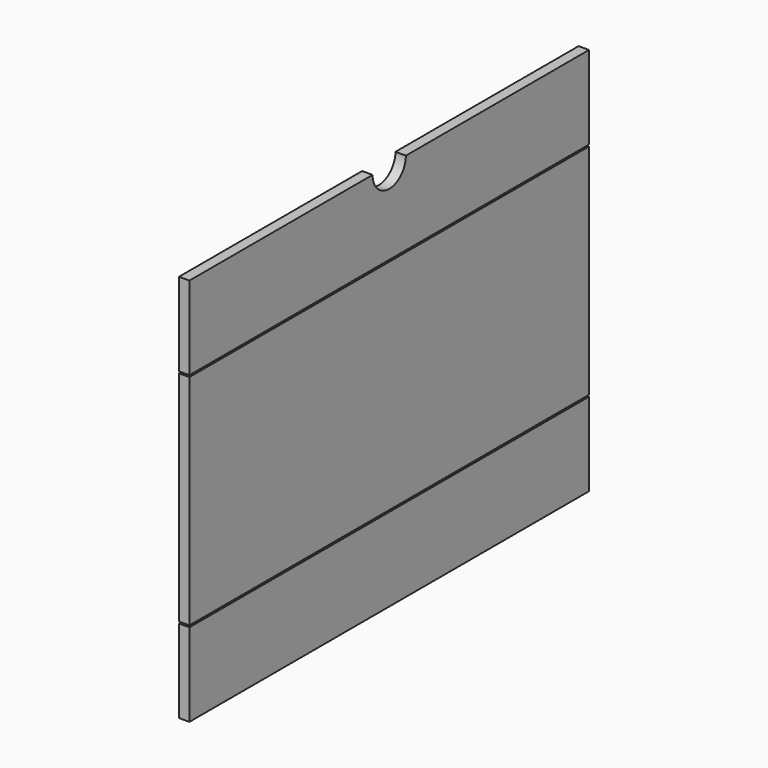
from build123d import *

# Parameters (mm, degrees)
F1_DEPTH = 19.05
F2_W     = 914.4
F2_H     = 3.175
F3_DEPTH = 25.4


with BuildPart() as f1:
    # F0 (on Right) → F1 (new body)
    with BuildSketch(Plane.YZ):
        with BuildLine():
            Line((457.2, -355.6), (457.2, 355.6))
            Line((457.2, 355.6), (38.1, 355.6))
            ThreePointArc((38.1, 355.6), (0, 317.5), (-38.1, 355.6))
            Line((-38.1, 355.6), (-457.2, 355.6))
            Line((-457.2, 355.6), (-457.2, -355.6))
            Line((-457.2, -355.6), (457.2, -355.6))
        make_face()
    extrude(amount=F1_DEPTH)

    # F2 (on face) → F3 (cut)
    with BuildSketch(Plane.YZ.offset(19.05)):
        with Locations((0, 201.6125)):
            Rectangle(F2_W, F2_H)
        with Locations((0, -201.6125)):
            Rectangle(F2_W, F2_H)
    extrude(amount=-F3_DEPTH, mode=Mode.SUBTRACT)


solid = f1.part
